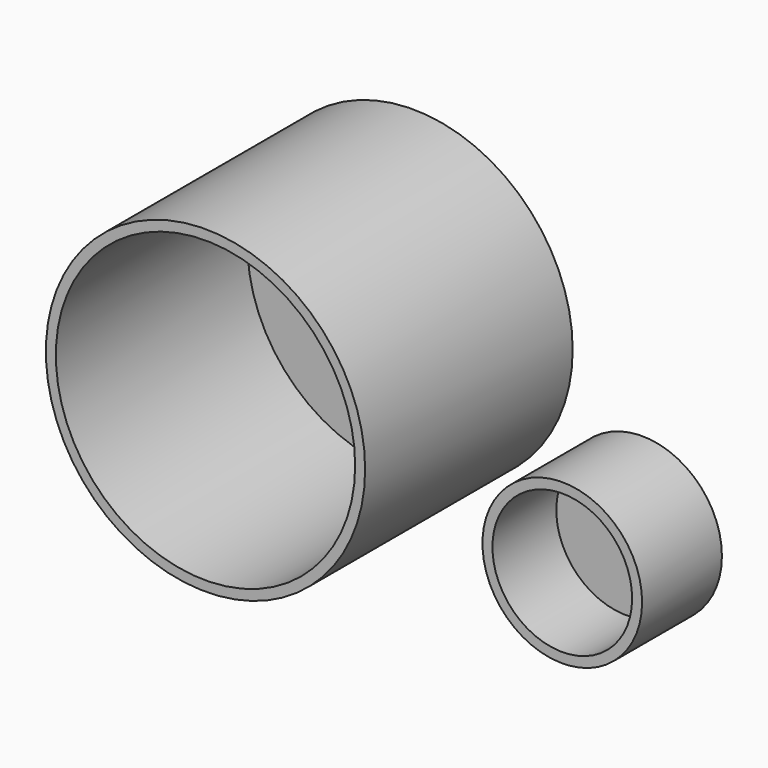
from build123d import *

# Parameters (mm, degrees)
F0_R     = 50.8
F2_DEPTH = 82.55
F1_R     = 25.4
F3_DEPTH = 31.75
F4_R     = 47.625
F5_DEPTH = 76.2
F6_R     = 22.225
F7_DEPTH = 25.4


with BuildPart() as f2:
    # F0 (on Front) → F2 (new body)
    with BuildSketch(Plane.XZ):
        with Locations((-42.133313, 10.182019)):
            Circle(F0_R)
    extrude(amount=F2_DEPTH)

    # F4 (on face) → F5 (cut)
    with BuildSketch(Plane.XZ.offset(82.55)):
        with Locations((-42.133313, 10.182019)):
            Circle(F4_R)
    extrude(amount=-F5_DEPTH, mode=Mode.SUBTRACT)


with BuildPart() as f3:
    # F1 (on Front) → F3 (new body)
    with BuildSketch(Plane.XZ):
        with Locations((30.759756, -32.250449)):
            Circle(F1_R)
    extrude(amount=F3_DEPTH)

    # F6 (on face) → F7 (cut)
    with BuildSketch(Plane.XZ.offset(31.75)):
        with Locations((30.759756, -32.250449)):
            Circle(F6_R)
    extrude(amount=-F7_DEPTH, mode=Mode.SUBTRACT)


solid = Compound([f2.part, f3.part])
